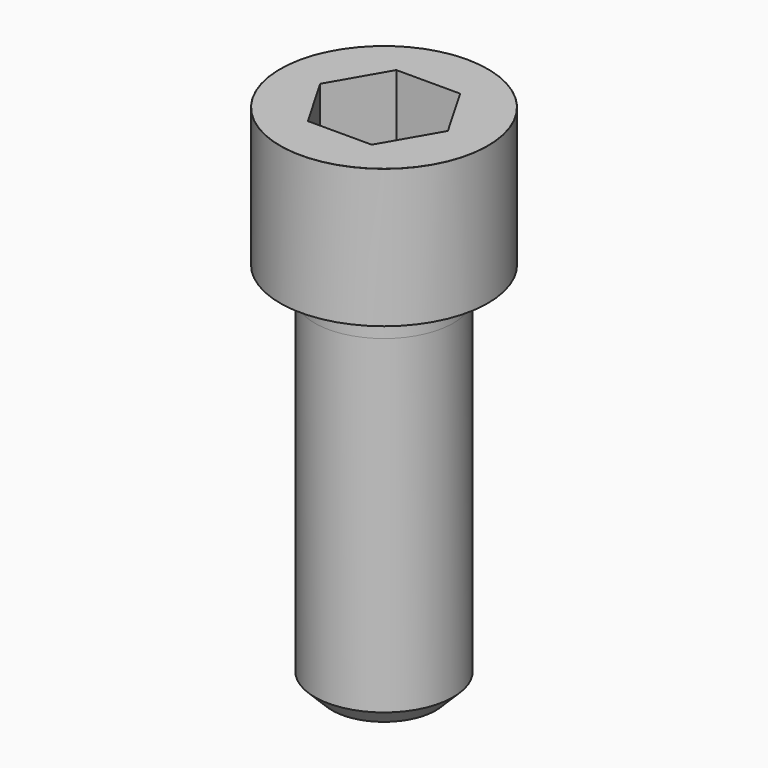
from build123d import *

# Parameters (mm, degrees)
POCKET_DEPTH = 19.15


with BuildPart() as part:
    # Sketch → Revolve (revolve)
    with BuildSketch(Plane.YZ):
        with BuildLine():
            Line((11.999, 0), (18, 0))
            Line((18, 0), (18, 23.97229))
            ThreePointArc((18, 23.97229), (17.991884, 23.991884), (17.97229, 24))
            Line((17.97229, 24), (0, 24))
            Line((0, -65), (0, 24))
            Line((9, -65), (0, -65))
            Line((12, -62), (9, -65))
            Line((12, -5), (12, -62))
            Line((11.999, 0), (12, -5))
        make_face()
    revolve(axis=Axis((0, 0, 0), (0, 0, 1)))

    # Sketch001 → Pocket (cut)
    with BuildSketch(Plane.XY.offset(24)):
        Polygon((11.056258, 0), (5.528129, 9.575), (-5.528129, 9.575), (-11.056258, 0), (-5.528129, -9.575), (5.528129, -9.575), align=None)
    extrude(amount=-POCKET_DEPTH, mode=Mode.SUBTRACT)


solid = part.part
